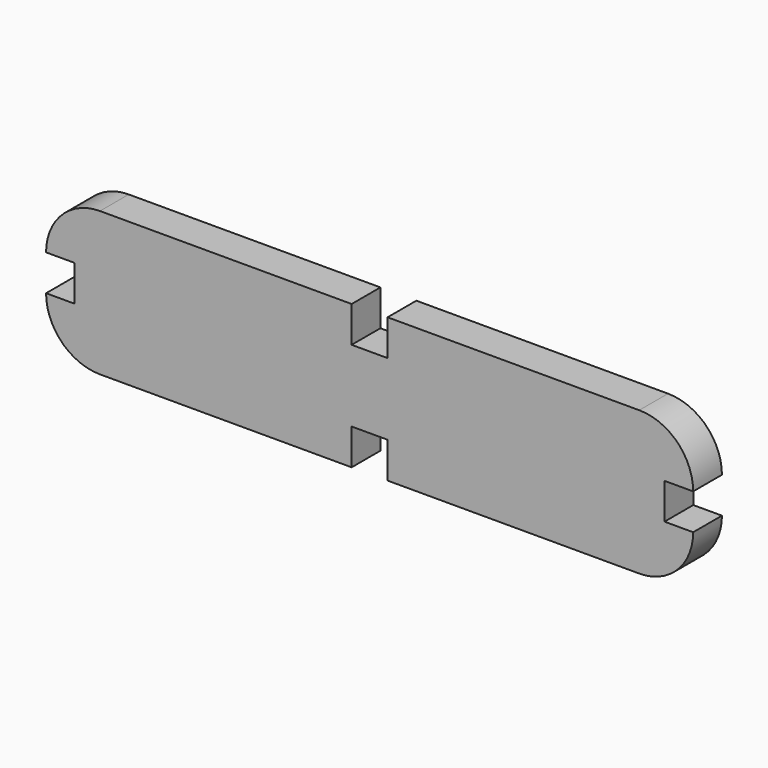
from build123d import *

# Parameters (mm, degrees)
F1_DEPTH = 25.4
F2_W     = 25.4
F2_H     = 25.4
F3_DEPTH = 25.4


with BuildPart() as f1:
    # F0 (on Front) → F1 (new body)
    with BuildSketch(Plane.XZ):
        with BuildLine():
            Line((190.5, 50.8), (0, 50.8))
            Line((0, 50.8), (-190.5, 50.8))
            ThreePointArc((-190.5, 50.8), (-217.440768, 39.640768), (-228.6, 12.7))
            Line((-228.6, 12.7), (-208.3562, 12.7))
            Line((-208.3562, 12.7), (-208.3562, 0))
            Line((-208.3562, 0), (-208.3562, -12.7))
            Line((-208.3562, -12.7), (-228.6, -12.7))
            ThreePointArc((-228.6, -12.7), (-217.440768, -39.640768), (-190.5, -50.8))
            Line((-190.5, -50.8), (0, -50.8))
            Line((0, -50.8), (190.5, -50.8))
            ThreePointArc((190.5, -50.8), (217.440768, -39.640768), (228.6, -12.7))
            Line((228.6, -12.7), (208.3562, -12.7))
            Line((208.3562, -12.7), (208.3562, 0))
            Line((208.3562, 0), (208.3562, 12.7))
            Line((208.3562, 12.7), (228.6, 12.7))
            ThreePointArc((228.6, 12.7), (217.440768, 39.640768), (190.5, 50.8))
        make_face()
    extrude(amount=F1_DEPTH)

    # F2 (on face) → F3 (cut)
    with BuildSketch(Plane.XZ.offset(25.4)):
        with Locations((0, 38.1)):
            Rectangle(F2_W, F2_H)
        Polygon((-12.7, -25.4), (-12.7, -50.8), (12.7, -50.8), (12.7, -25.4), (0, -25.4), align=None)
    extrude(amount=-F3_DEPTH, mode=Mode.SUBTRACT)


solid = f1.part
